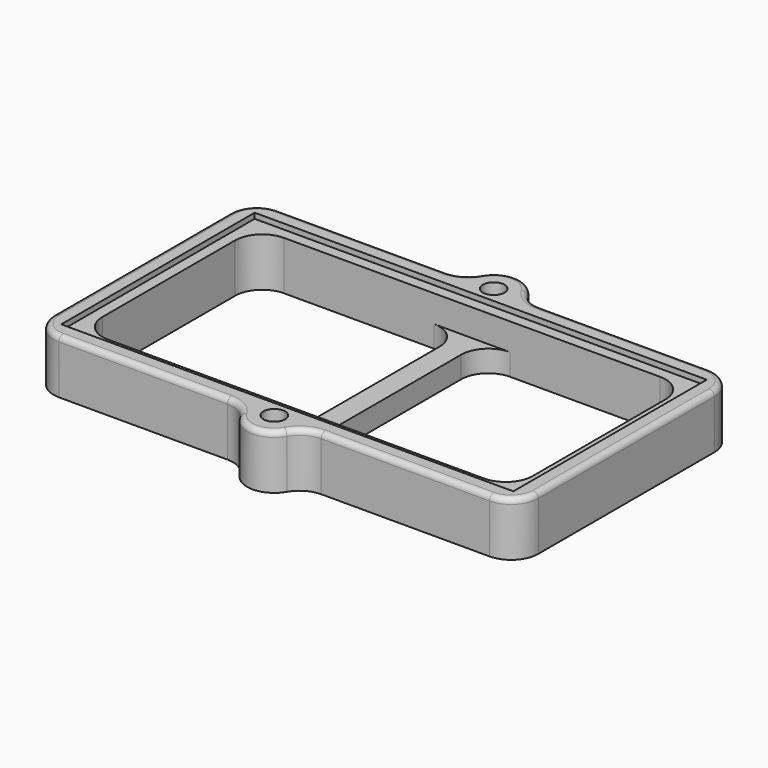
from build123d import *

# Parameters (mm, degrees)
F0_W     = 83.4
F0_H     = 44.6
F1_DEPTH = 9
F2_DEPTH = 10
F0_W_2   = 4
F0_H_2   = 40.6
F3_DEPTH = 4
F4_D     = 4
F4_DEPTH = 15
F4_TIP   = 1.2017212381
F5_R     = 5
F6_R     = 1


with BuildPart() as f1:
    # F0 (on Top) → F1 (new body)
    with BuildSketch(Plane.XY):
        Rectangle(F0_W, F0_H)
        Polygon((-39.7, -20.3), (-39.7, 20.3), (-2, 20.3), (2, 20.3), (39.7, 20.3), (39.7, -20.3), (2, -20.3), (-2, -20.3), align=None, mode=Mode.SUBTRACT)
    extrude(amount=F1_DEPTH)

    # F0 (on Top) → F2 (join)
    with BuildSketch(Plane.XY):
        Polygon((-5, 25.3), (-44.7, 25.3), (-44.7, -25.3), (-5, -25.3), (5, -25.3), (44.7, -25.3), (44.7, 25.3), (5, 25.3), align=None)
        Rectangle(F0_W, F0_H, mode=Mode.SUBTRACT)
        with BuildLine():
            Line((5, -25.3), (-5, -25.3))
            ThreePointArc((-5, -25.3), (0, -30.3), (5, -25.3))
        make_face()
        with BuildLine():
            ThreePointArc((5, 25.3), (0, 30.3), (-5, 25.3))
            Line((-5, 25.3), (5, 25.3))
        make_face()
    extrude(amount=F2_DEPTH)

    # F0 (on Top) → F3 (join)
    with BuildSketch(Plane.XY):
        Rectangle(F0_W_2, F0_H_2)
    extrude(amount=F3_DEPTH)

    # F4
    with Locations(Plane(origin=(0, 0, 0), x_dir=(1, 0, 0), z_dir=(0, 0, -1))):
        with Locations((0, -25.3), (0, 25.3)):
            Hole(F4_D / 2, depth=F4_DEPTH)
            with Locations((0, 0, -(F4_DEPTH + F4_TIP / 2))):  # 118° drill point
                Cone(0, F4_D / 2, F4_TIP, mode=Mode.SUBTRACT)

    # F5
    f5_edges = [f1.edges().sort_by_distance(p)[0] for p in [
        (-44.7, 25.3, 5),
        (-5, 25.3, 5),
        (5, 25.3, 5),
        (44.7, 25.3, 5),
        (44.7, -25.3, 5),
        (-5, -25.3, 5),
        (5, -25.3, 5),
        (-44.7, -25.3, 5),
        (2, 20.3, 2),
        (-2, 20.3, 2),
        (2, -20.3, 2),
        (-2, -20.3, 2),
        (39.7, 20.3, 4.5),
        (-39.7, 20.3, 4.5),
        (-39.7, -20.3, 4.5),
        (39.7, -20.3, 4.5),
    ]]
    fillet(f5_edges, radius=F5_R)

    # F6
    f6_edges = [f1.edges().sort_by_distance(p)[0] for p in [
        (-43.235534, 23.835534, 10),
    ]]
    fillet(f6_edges, radius=F6_R)


solid = f1.part
